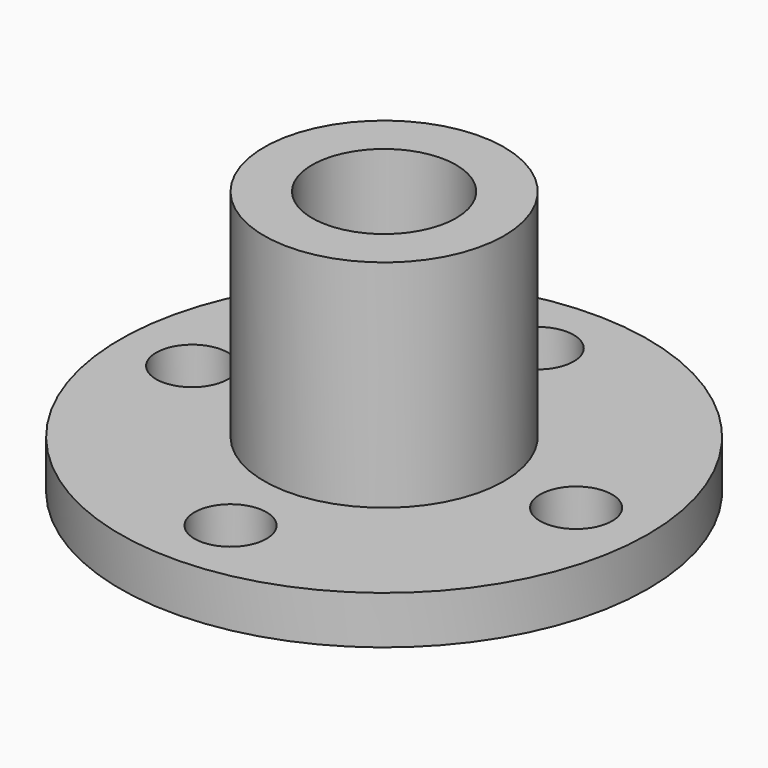
from build123d import *

# Parameters (mm, degrees)
F0_R     = 11
F1_DEPTH = 2
F2_R     = 5
F2_R_2   = 3
F3_DEPTH = 9
F4_R     = 3
F5_DEPTH = 2
F7_D     = 3


with BuildPart() as f1:
    # F0 (on Top) → F1 (new body)
    with BuildSketch(Plane.XY):
        Circle(F0_R)
    extrude(amount=F1_DEPTH)

    # F2 (on face) → F3 (join)
    with BuildSketch(Plane.XY.offset(2)):
        Circle(F2_R)
        Circle(F2_R_2, mode=Mode.SUBTRACT)
    extrude(amount=F3_DEPTH)

    # F4 (on face) → F5 (cut, through all)
    with BuildSketch(Plane.XY.offset(2)):
        Circle(F4_R)
    extrude(amount=-F5_DEPTH, mode=Mode.SUBTRACT)

    # F7 (through all)
    with Locations(Plane.XY.offset(2)):
        with Locations((0, 8), (8, 0), (0, -8), (-8, 0)):
            Hole(F7_D / 2)


solid = f1.part
